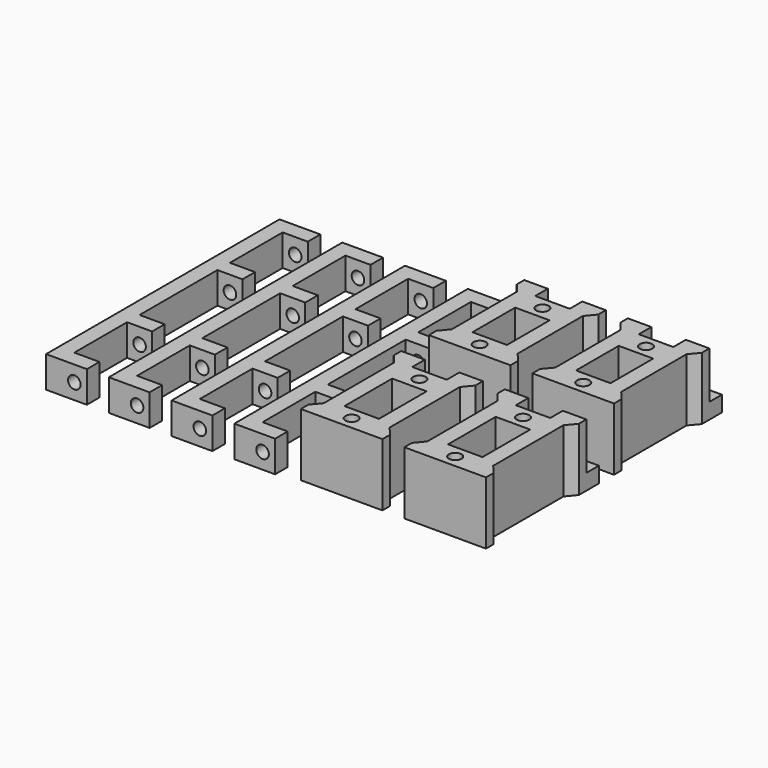
from build123d import *

# Parameters (mm, degrees)
SKETCH_R     = 2
SKETCH_W     = 11
SKETCH_H     = 17
PAD_DEPTH    = 20
SKETCH009_W  = 7.5
SKETCH009_H  = 5
PAD008_DEPTH = 5
PAD007_DEPTH = 10
SKETCH010_R  = 2
POCKET_DEPTH = 93.001
SKETCH011_R  = 2
SKETCH011_W  = 11
SKETCH011_H  = 19
PAD009_DEPTH = 20
SKETCH012_W  = 7.5
SKETCH012_H  = 5
PAD010_DEPTH = 5


with BuildPart() as obj1:
    # Sketch → Pad (new body)
    with BuildSketch(Plane(origin=(5, 25, 0), x_dir=(1, 0, 0), z_dir=(0, 0, 1))):
        Polygon((-13, -19), (13, -19), (13, -16), (10.5, -13), (10.5, 13), (13, 16), (13, 19), (5.5, 19), (5.5, 14), (-5.5, 14), (-5.5, 19), (-13, 19), (-13, 16), (-10.5, 13), (-10.5, -13), (-13, -16), align=None)
        with Locations((0, -15)):
            Circle(SKETCH_R, mode=Mode.SUBTRACT)
        with Locations((0, 10)):
            Circle(SKETCH_R, mode=Mode.SUBTRACT)
        with Locations((0, -2.5)):
            Rectangle(SKETCH_W, SKETCH_H, mode=Mode.SUBTRACT)
    extrude(amount=PAD_DEPTH)

    # Sketch009 → Pad008 (new body)
    with BuildSketch(Plane(origin=(5, 44, 0), x_dir=(-1, 0, 0), z_dir=(0, 1, 0))):
        with Locations((-9.25, 2.5)):
            Rectangle(SKETCH009_W, SKETCH009_H)
        with Locations((9.25, 2.5)):
            Rectangle(SKETCH009_W, SKETCH009_H)
    extrude(amount=PAD008_DEPTH)


with BuildPart() as obj2:
    # Clone base: copy of obj1
    add(obj1.part)


with BuildPart() as obj2_1:
    # Clone placement: moved
    add(obj2.part.moved(Location((33, 0, 0))))


with BuildPart() as obj3:
    # Sketch007 → Pad007 (new body)
    with BuildSketch(Plane(origin=(-15, 0, 0), x_dir=(1, 0, 0), z_dir=(0, 0, 1))):
        Polygon((-13, 46.5), (-13, -46.5), (0, -46.5), (0, -41.5), (-8, -41.5), (-8, -20.5), (0, -20.5), (0, -15.5), (-8, -15.5), (-8, 15.5), (0, 15.5), (0, 20.5), (-8, 20.5), (-8, 41.5), (0, 41.5), (0, 46.5), align=None)
    extrude(amount=PAD007_DEPTH)

    # Sketch010 → Pocket (cut, through all)
    with BuildSketch(Plane(origin=(-15, 46.5, 0), x_dir=(-1, 0, 0), z_dir=(0, 1, 0))):
        with Locations((4, 5)):
            Circle(SKETCH010_R)
    extrude(amount=-POCKET_DEPTH, mode=Mode.SUBTRACT)


with BuildPart() as obj4:
    # Clone001 base: copy of obj3
    add(obj3.part)


with BuildPart() as obj4_1:
    # Clone001 placement: moved
    add(obj4.part.moved(Location((-20, 0, 0))))


with BuildPart() as obj5:
    # Clone002 base: copy of obj3
    add(obj3.part)


with BuildPart() as obj5_1:
    # Clone002 placement: moved
    add(obj5.part.moved(Location((-40, 0, 0))))


with BuildPart() as obj6:
    # Clone003 base: copy of obj3
    add(obj3.part)


with BuildPart() as obj6_1:
    # Clone003 placement: moved
    add(obj6.part.moved(Location((-60, 0, 0))))


with BuildPart() as obj7:
    # Sketch011 → Pad009 (new body)
    with BuildSketch(Plane(origin=(5, -25, 0), x_dir=(1, 0, 0), z_dir=(0, 0, 1))):
        Polygon((-13, -20), (13, -20), (13, -17), (10.5, -14), (10.5, 14), (13, 17), (13, 20), (5.5, 20), (5.5, 15), (-5.5, 15), (-5.5, 20), (-13, 20), (-13, 17), (-10.5, 14), (-10.5, -14), (-13, -17), align=None)
        with Locations((0, -16)):
            Circle(SKETCH011_R, mode=Mode.SUBTRACT)
        with Locations((0, 11)):
            Circle(SKETCH011_R, mode=Mode.SUBTRACT)
        with Locations((0, -2.5)):
            Rectangle(SKETCH011_W, SKETCH011_H, mode=Mode.SUBTRACT)
    extrude(amount=PAD009_DEPTH)

    # Sketch012 → Pad010 (new body)
    with BuildSketch(Plane(origin=(5, -5, 0), x_dir=(-1, 0, 0), z_dir=(0, 1, 0))):
        with Locations((-9.25, 2.5)):
            Rectangle(SKETCH012_W, SKETCH012_H)
        with Locations((9.25, 2.5)):
            Rectangle(SKETCH012_W, SKETCH012_H)
    extrude(amount=PAD010_DEPTH)


with BuildPart() as obj8:
    # Clone004 base: copy of obj7
    add(obj7.part)


with BuildPart() as obj8_1:
    # Clone004 placement: moved
    add(obj8.part.moved(Location((33, 0, 0))))


solid = Compound([obj1.part, obj2_1.part, obj3.part, obj4_1.part, obj5_1.part, obj6_1.part, obj7.part, obj8_1.part])
